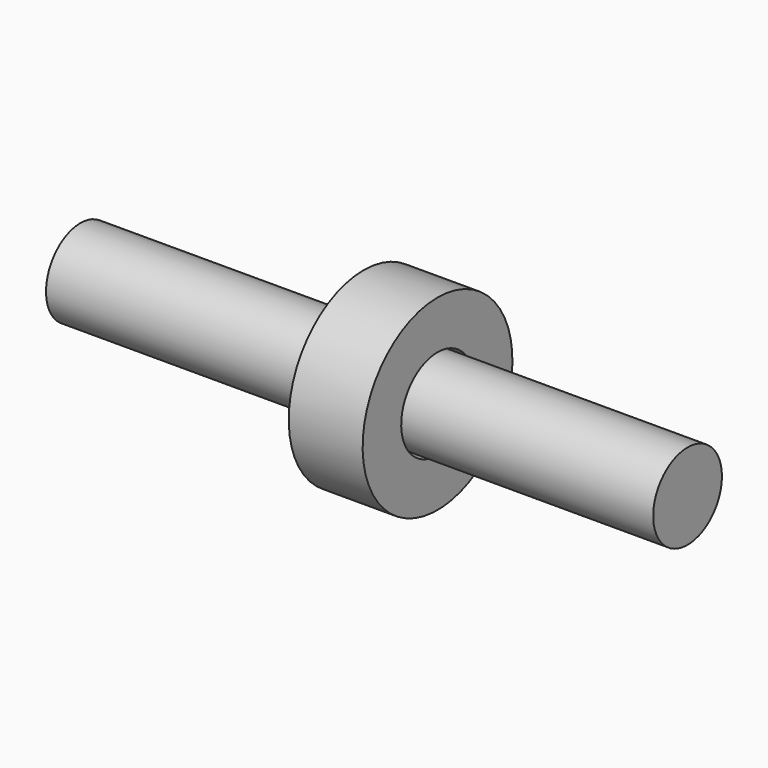
from build123d import *

# Parameters (mm, degrees)
F0_R     = 21.563758
F1_DEPTH = 304.8
F2_W     = 37.101716
F2_H     = 24.202138


with BuildPart() as f1:
    # F0 (on Right) → F1 (new body)
    with BuildSketch(Plane.YZ):
        with Locations((0.035658, -0.763595)):
            Circle(F0_R)
    extrude(amount=F1_DEPTH)


with BuildPart() as f3:
    # F2 (on Front) → F3 (revolve)
    with BuildSketch(Plane.XZ):
        with Locations((160.736278, 34.129545)):
            Rectangle(F2_W, F2_H)
    revolve(axis=Axis((0, 0.035658, -0.763595), (-1, 0, 0)))


solid = Compound([f1.part, f3.part])
